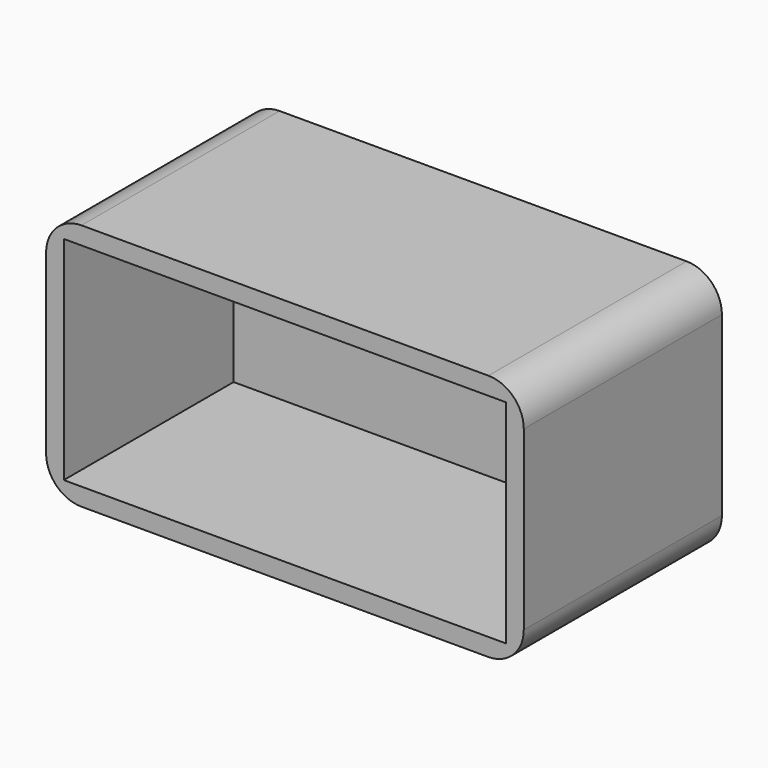
from build123d import *

# Parameters (mm, degrees)
F0_W     = 270
F0_H     = 140
F1_DEPTH = 140
F2_W     = 250
F2_H     = 120
F3_DEPTH = 120
F4_R     = 20


with BuildPart() as f1:
    # F0 (on Front) → F1 (new body)
    with BuildSketch(Plane.XZ):
        Rectangle(F0_W, F0_H)
    extrude(amount=F1_DEPTH)

    # F2 (on face) → F3 (cut)
    with BuildSketch(Plane.XZ.offset(140)):
        Rectangle(F2_W, F2_H)
    extrude(amount=-F3_DEPTH, mode=Mode.SUBTRACT)

    # F4
    f4_edges = [f1.edges().sort_by_distance(p)[0] for p in [
        (135, -70, 70),
        (-135, -70, 70),
        (135, -70, -70),
        (-135, -70, -70),
    ]]
    fillet(f4_edges, radius=F4_R)


solid = f1.part
